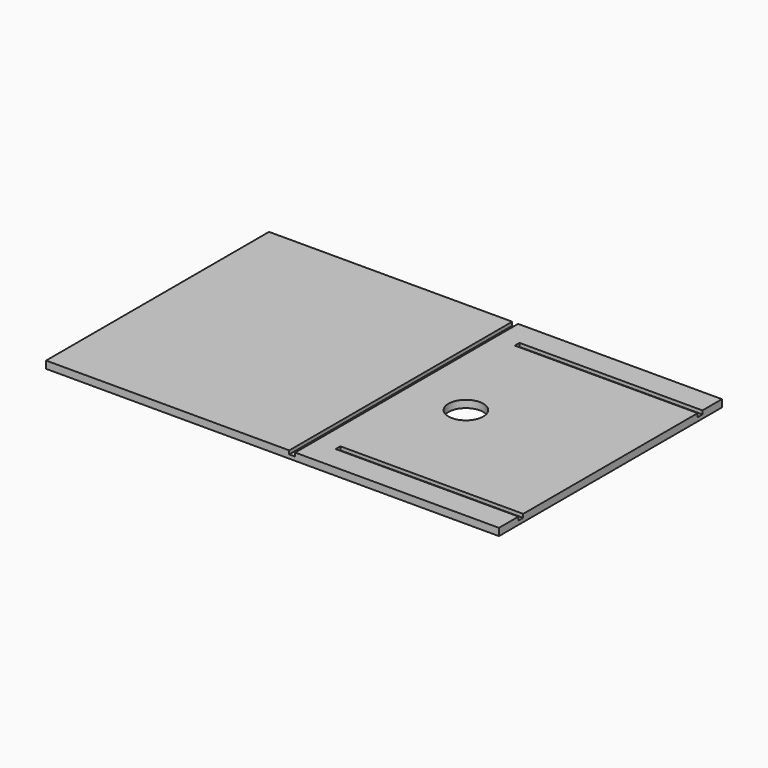
from build123d import *

# Parameters (mm, degrees)
F0_W     = 1300
F0_H     = 800
F1_DEPTH = 21
F2_W     = 17
F2_H     = 800
F2_W_2   = 525
F2_H_2   = 17
F3_DEPTH = 10.2
F4_R     = 50
F5_DEPTH = 25


with BuildPart() as f1:
    # F0 (on Top) → F1 (new body)
    with BuildSketch(Plane.XY):
        with Locations((650, 400)):
            Rectangle(F0_W, F0_H)
    extrude(amount=F1_DEPTH)

    # F2 (on face) → F3 (cut)
    with BuildSketch(Plane.XY.offset(21)):
        with Locations((706.5, 400)):
            Rectangle(F2_W, F2_H)
        with Locations((1037.5, 721.5)):
            Rectangle(F2_W_2, F2_H_2)
        with Locations((1037.5, 78.5)):
            Rectangle(F2_W_2, F2_H_2)
    extrude(amount=-F3_DEPTH, mode=Mode.SUBTRACT)

    # F4 (on face) → F5 (cut)
    with BuildSketch(Plane.XY.offset(21)):
        with Locations((885, 400)):
            Circle(F4_R)
    extrude(amount=-F5_DEPTH, mode=Mode.SUBTRACT)


solid = f1.part
